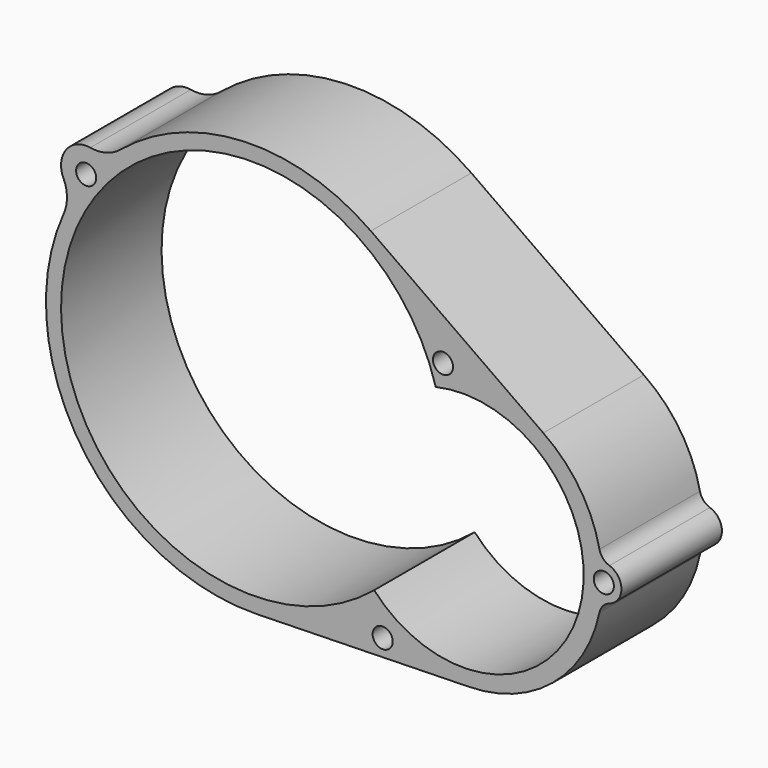
from build123d import *

# Parameters (mm, degrees)
F0_R     = 2
F1_DEPTH = 25


with BuildPart() as f1:
    # F0 (on Front) → F1 (new body)
    with BuildSketch(Plane.XZ):
        with BuildLine():
            Line((57.956045, 9.278841), (23.641784, 33.497254))
            ThreePointArc((23.641784, 33.497254), (-1.59376, 40.969012), (-26.172592, 31.559396))
            ThreePointArc((-26.172592, 31.559396), (-29.001558, 30.09274), (-32.184104, 29.932982))
            ThreePointArc((-32.184104, 29.932982), (-36.985461, 28.019288), (-37.527914, 22.879153))
            ThreePointArc((-37.527914, 22.879153), (-36.820154, 19.772193), (-37.466211, 16.651818))
            ThreePointArc((-37.466211, 16.651818), (-34.112877, -22.744486), (0.965101, -40.98864))
            Line((0.965101, -40.98864), (42.953463, -40))
            ThreePointArc((42.953463, -40), (59.819646, -33.883677), (69.129035, -18.547028))
            ThreePointArc((69.129035, -18.547028), (69.823918, -17.168934), (71.111959, -16.318666))
            ThreePointArc((71.111959, -16.318666), (73.5, -12.999853), (71.111681, -9.68124))
            ThreePointArc((71.111681, -9.68124), (69.823568, -8.831081), (69.128569, -7.453045))
            ThreePointArc((69.128569, -7.453045), (65.158987, 1.992418), (57.956045, 9.278841))
        make_face()
        with Locations((26, -37)):
            Circle(F0_R, mode=Mode.SUBTRACT)
        with Locations((70, -13)):
            Circle(F0_R, mode=Mode.SUBTRACT)
        with BuildLine():
            ThreePointArc((24.303411, -29.212056), (-36.300864, 11.235982), (36.556392, 10.374497))
            ThreePointArc((36.556392, 10.374497), (64.926861, -20.096409), (24.303411, -29.212056))
        make_face(mode=Mode.SUBTRACT)
        with Locations((-33, 25)):
            Circle(F0_R, mode=Mode.SUBTRACT)
        with Locations((38, 15)):
            Circle(F0_R, mode=Mode.SUBTRACT)
    extrude(amount=F1_DEPTH)


solid = f1.part
